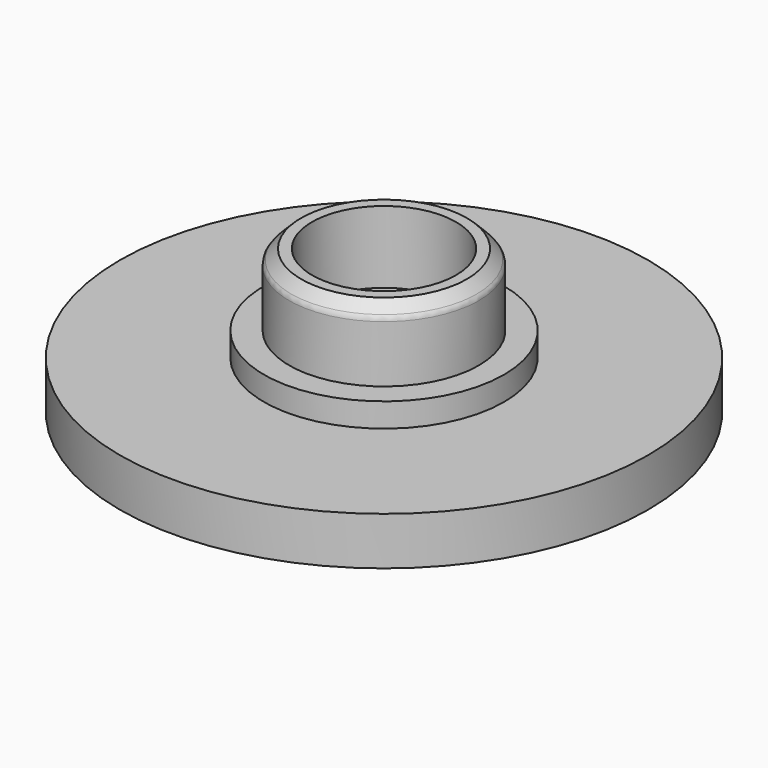
from build123d import *

# Parameters (mm, degrees)
F0_R     = 11
F1_DEPTH = 2
F2_R     = 5
F3_DEPTH = 1
F4_R     = 3.95
F5_DEPTH = 3
F6_R     = 3
F7_DEPTH = 3
F8_SIZE  = 0.5
F9_R     = 0.3


with BuildPart() as f1:
    # F0 (on Top) → F1 (new body)
    with BuildSketch(Plane.XY):
        Circle(F0_R)
    extrude(amount=F1_DEPTH)

    # F2 (on face) → F3 (join)
    with BuildSketch(Plane.XY.offset(2)):
        Circle(F2_R)
    extrude(amount=F3_DEPTH)

    # F4 (on face) → F5 (join)
    with BuildSketch(Plane.XY.offset(3)):
        Circle(F4_R)
    extrude(amount=F5_DEPTH)

    # F6 (on face) → F7 (cut)
    with BuildSketch(Plane.XY.offset(6)):
        Circle(F6_R)
    extrude(amount=-F7_DEPTH, mode=Mode.SUBTRACT)

    # F8
    f8_edges = [f1.edges().sort_by_distance(p)[0] for p in [
        (-3.95, 0, 6),
    ]]
    chamfer(f8_edges, length=F8_SIZE)

    # F9
    f9_edges = [f1.edges().sort_by_distance(p)[0] for p in [
        (-3.95, 0, 5.5),
    ]]
    fillet(f9_edges, radius=F9_R)


solid = f1.part
